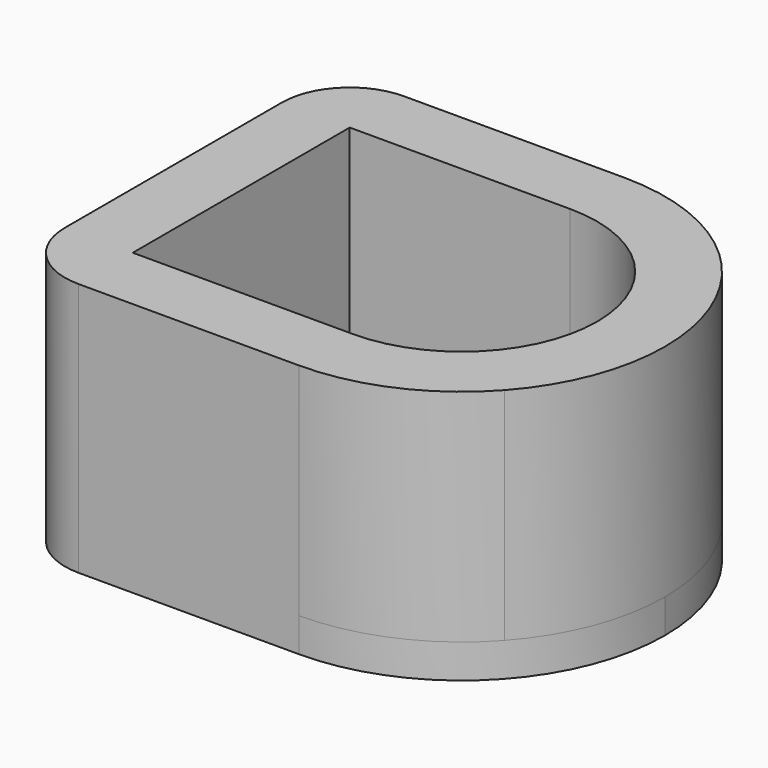
from build123d import *

# Parameters (mm, degrees)
F1_DEPTH = 2
F3_DEPTH = 13
F4_W     = 5
F4_H     = 16
F5_DEPTH = 25
F6_R     = 4


with BuildPart() as f1:
    # F0 (on Top) → F1 (new body)
    with BuildSketch(Plane.XY):
        with BuildLine():
            ThreePointArc((0, -12), (-12, 5e-09), (9.9e-09, 12))
            Line((9.9e-09, 12), (-17, 12))
            Line((-17, 12), (-17, -12))
            Line((-17, -12), (0, -12))
        make_face()
        with BuildLine():
            ThreePointArc((0, -12), (8.4852813742, -8.4852813742), (12, 0))
            ThreePointArc((12, 0), (8.4852813777, 8.4852813707), (9.9e-09, 12))
            ThreePointArc((9.9e-09, 12), (-12, 5e-09), (0, -12))
        make_face()
    extrude(amount=F1_DEPTH)

    # F2 (on face) → F3 (join)
    with BuildSketch(Plane.XY.offset(2)):
        with BuildLine():
            Line((-13, 8), (0, 8))
            Line((0, 8), (8.94427191, 8))
            ThreePointArc((8.94427191, 8), (4.8989794901, 10.9544511481), (9.9e-09, 12))
            Line((9.9e-09, 12), (-17, 12))
            Line((-17, 12), (-17, -12))
            Line((-17, -12), (0, -12))
            ThreePointArc((0, -12), (4.8989794856, -10.9544511501), (8.94427191, -8))
            Line((8.94427191, -8), (0, -8))
            Line((0, -8), (-13, -8))
            Line((-13, -8), (-13, 8))
        make_face()
        with BuildLine():
            ThreePointArc((0, 8), (5.6568542495, 5.6568542495), (8, 0))
            ThreePointArc((8, 0), (5.6568542495, -5.6568542495), (0, -8))
            Line((0, -8), (8.94427191, -8))
            ThreePointArc((8.94427191, -8), (12, 0), (8.94427191, 8))
            Line((8.94427191, 8), (0, 8))
        make_face()
    extrude(amount=F3_DEPTH)

    # F4 (on face) → F5 (cut)
    with BuildSketch(Plane.XY.offset(2)):
        with Locations((-10.5, 0)):
            Rectangle(F4_W, F4_H)
    extrude(amount=-F5_DEPTH, mode=Mode.SUBTRACT)

    # F6
    f6_edges = [f1.edges().sort_by_distance(p)[0] for p in [
        (-17, 12, 7.5),
        (-17, -12, 7.5),
    ]]
    fillet(f6_edges, radius=F6_R)


solid = f1.part
